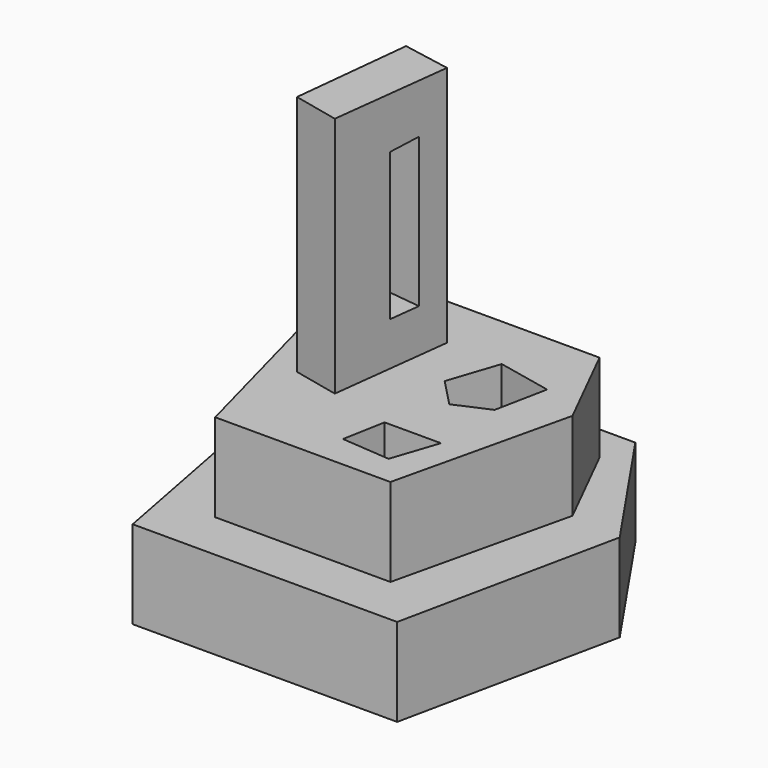
from build123d import *

# Parameters (mm, degrees)
PAD001_DEPTH    = 20
PAD002_DEPTH    = 55
POCKET_DEPTH    = 20.001
POCKET001_DEPTH = 20.001
POCKET002_DEPTH = 26.229299261
PAD_DEPTH       = 20


with BuildPart() as cos001:
    # Sketch001 → Pad001 (new body)
    with BuildSketch(Plane.XY):
        Polygon((-20.078087, 40.157761), (19.522198, 40.157761), (29.755972, 19.690201), (20.412092, -20.355032), (-19.410667, -20.355032), (-30.089394, 19.690201), align=None)
    extrude(amount=PAD001_DEPTH)

    # Sketch002 (on Face8 of Pad001) → Pad002 (join)
    with BuildSketch(Plane.XY.offset(20)):
        Polygon((-16.07358, 29.701555), (-18.965738, 2.337317), (-8.509485, 0), (-5.172382, 27.699299), align=None)
    extrude(amount=PAD002_DEPTH)

    # Sketch003 (on Face5 of Pad002) → Pocket (cut, through all)
    with BuildSketch(Plane.XY.offset(20)):
        Polygon((3.523278, -12.723139), (5.271812, -3.106201), (18.094395, -3.106201), (14.597327, -13.597406), align=None)
    extrude(amount=-POCKET_DEPTH, mode=Mode.SUBTRACT)

    # Sketch004 (on Face5 of Pocket) → Pocket001 (cut, through all)
    with BuildSketch(Plane.XY.offset(20)):
        Polygon((7.515794, 27.392387), (19.922806, 24.767822), (17.536848, 12.837999), (9.901758, 9.497649), (3.698247, 15.939757), align=None)
    extrude(amount=-POCKET001_DEPTH, mode=Mode.SUBTRACT)

    # Sketch005 (on Face21 of Pocket001) → Pocket002 (cut, through all)
    with BuildSketch(Plane(origin=(-8.3877412456, 1.0105221968, 0), x_dir=(0.1196111613, 0.9928208147, 0), z_dir=(0.9928208147, -0.1196111613, 0))):
        Polygon((12.75742, 63.347404), (19.909297, 63.77652), (19.909297, 29.876617), (12.75742, 29.876617), align=None)
    extrude(amount=-POCKET002_DEPTH, mode=Mode.SUBTRACT)


with BuildPart() as fusion:
    # Sketch → Pad (new body)
    with BuildSketch(Plane.XY):
        Polygon((-19.825504, 50.122402), (-39.942722, 19.946573), (-30.363098, -30.106991), (29.749079, -30.106991), (40.286671, 19.946573), (19.690475, 50.122402), align=None)
    extrude(amount=PAD_DEPTH)


with BuildPart() as fusion_1:
    # Body placement: moved
    add(fusion.part.moved(Location((0, 0, -21))))

    # Fusion: union Cos001
    add(cos001.part)


solid = fusion_1.part
